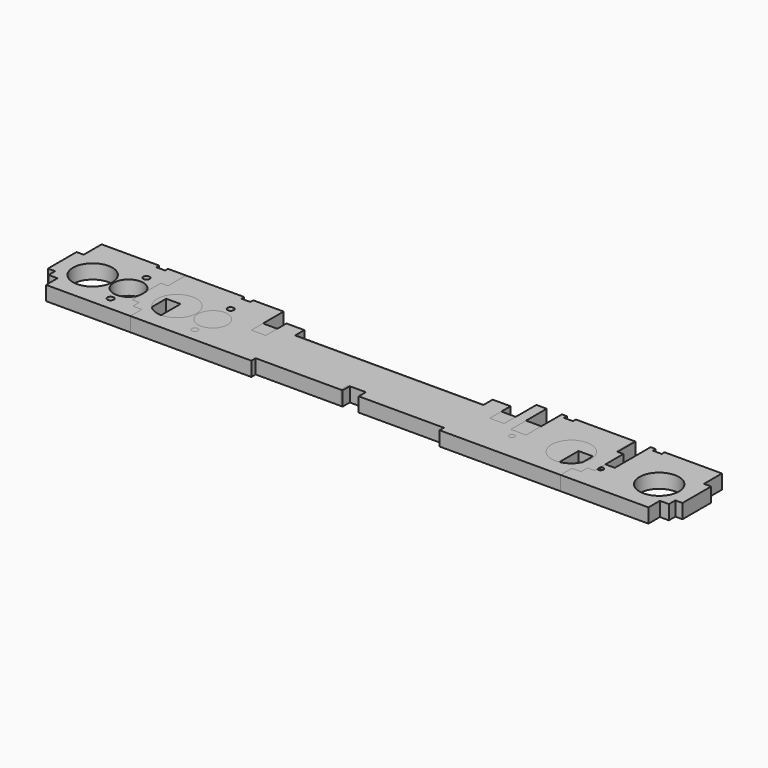
from build123d import *

# Parameters (mm, degrees)
SKETCH_R      = 11
SKETCH_R_2    = 1.5
SKETCH_R_3    = 8.25
SKETCH_R_4    = 1.75
PAD_DEPTH     = 8
SKETCH001_R   = 11
SKETCH001_R_2 = 1.5
SKETCH001_R_3 = 8.25
SKETCH001_R_4 = 1.75
PAD001_DEPTH  = 8


with BuildPart() as short_scroll:
    # Sketch → Pad (new body)
    with BuildSketch(Plane.XY):
        Polygon((-173, 45), (-141, 45), (-141, 43), (-136, 43), (-136, 45), (-119, 45), (-119, 37), (-101, 37), (-101, 30.6), (101, 30.6), (101, 37), (119, 37), (119, 45), (124.75, 45), (124.75, 20), (133.25, 20), (133.25, 45), (136, 45), (136, 43), (141, 43), (141, 45), (173, 45), (173, 32.5), (177, 32.5), (177, 12.5), (173, 12.5), (173, 8), (168, 8), (168, 0), (119, 0), (119, 22.5), (111, 22.5), (111, 0), (101, 0), (101, 3), (5, 3), (5, 8), (-5, 8), (-5, 3), (-101, 3), (-101, 0), (-111, 0), (-111, 22.5), (-119, 22.5), (-119, 0), (-168, 0), (-168, 8), (-173, 8), (-173, 12.5), (-177, 12.5), (-177, 32.5), (-173, 32.5), align=None)
        with Locations((-158, 20)):
            Circle(SKETCH_R, mode=Mode.SUBTRACT)
        with Locations((158, 20)):
            Circle(SKETCH_R, mode=Mode.SUBTRACT)
        with Locations((129, 15.5)):
            Circle(SKETCH_R_2, mode=Mode.SUBTRACT)
        with Locations((-138, 20)):
            Circle(SKETCH_R_3, mode=Mode.SUBTRACT)
        with Locations((-138, 7.5)):
            Circle(SKETCH_R_4, mode=Mode.SUBTRACT)
        with Locations((-138, 32.5)):
            Circle(SKETCH_R_4, mode=Mode.SUBTRACT)
    extrude(amount=PAD_DEPTH)


with BuildPart() as short_scroll_1:
    # Body placement: moved
    add(short_scroll.part.moved(Location((1, 0, 0))))


with BuildPart() as long_scroll:
    # Sketch001 → Pad001 (new body)
    with BuildSketch(Plane.XY):
        Polygon((-125, 45), (-92.5, 45), (-92.5, 43), (-87.5, 43), (-87.5, 45), (-70.5, 45), (-70.5, 22.5), (-62.5, 22.5), (-62.5, 37), (-52.5, 37), (-52.5, 30), (52.5, 30), (52.5, 37), (62.5, 37), (62.5, 22.5), (70.5, 22.5), (70.5, 45), (76.25, 45), (76.25, 20), (84.75, 20), (84.75, 45), (87.5, 45), (87.5, 43), (92.5, 43), (92.5, 45), (125, 45), (125, 32.5), (129, 32.5), (129, 12.5), (125, 12.5), (125, 8), (120, 8), (120, 0), (52.5, 0), (52.5, 3), (5, 3), (5, 8), (-5, 8), (-5, 3), (-52.5, 3), (-52.5, 0), (-120, 0), (-120, 8), (-125, 8), (-125, 12.5), (-129, 12.5), (-129, 32.5), (-125, 32.5), align=None)
        with Locations((-110, 20)):
            Circle(SKETCH001_R, mode=Mode.SUBTRACT)
        with Locations((110, 20)):
            Circle(SKETCH001_R, mode=Mode.SUBTRACT)
        with Locations((80.5, 15.5)):
            Circle(SKETCH001_R_2, mode=Mode.SUBTRACT)
        with Locations((-90, 20)):
            Circle(SKETCH001_R_3, mode=Mode.SUBTRACT)
        with Locations((-90, 32.5)):
            Circle(SKETCH001_R_4, mode=Mode.SUBTRACT)
        with Locations((-90, 7.5)):
            Circle(SKETCH001_R_4, mode=Mode.SUBTRACT)
    extrude(amount=PAD001_DEPTH)


solid = Compound([short_scroll_1.part, long_scroll.part])
